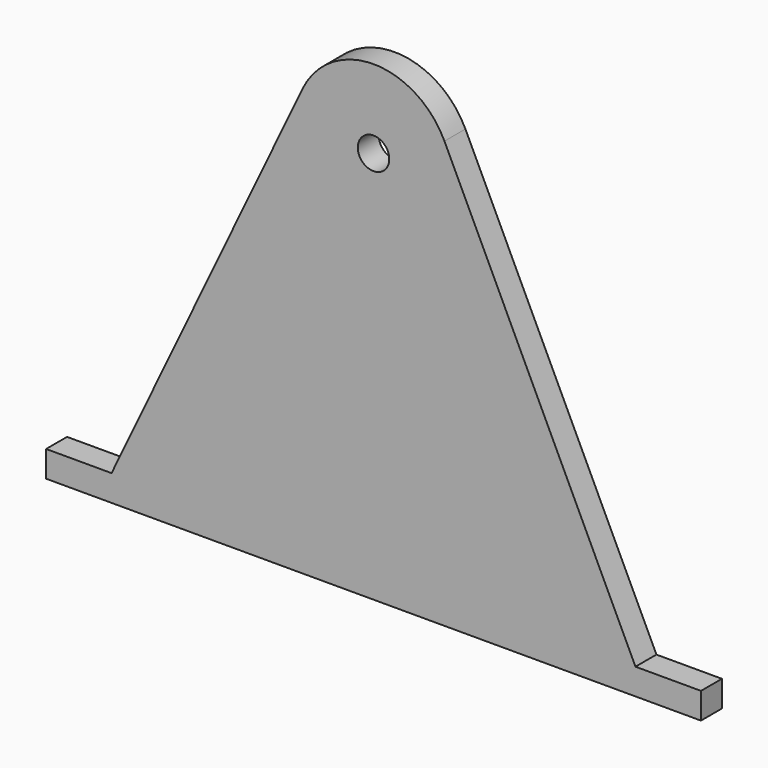
from build123d import *

# Parameters (mm, degrees)
F0_R     = 6
F1_DEPTH = 10


with BuildPart() as f1:
    # F0 (on Front) → F1 (new body)
    with BuildSketch(Plane.XZ):
        with BuildLine():
            Line((100, 0), (27.078551, 152.913251))
            ThreePointArc((27.078551, 152.913251), (0, 170), (-27.078551, 152.913251))
            Line((-27.078551, 152.913251), (-100, 0))
            Line((-100, 0), (-125, 0))
            Line((-125, 0), (-125, -10))
            Line((-125, -10), (125, -10))
            Line((125, -10), (125, 0))
            Line((125, 0), (100, 0))
        make_face()
        with Locations((0, 140)):
            Circle(F0_R, mode=Mode.SUBTRACT)
    extrude(amount=F1_DEPTH)


solid = f1.part
